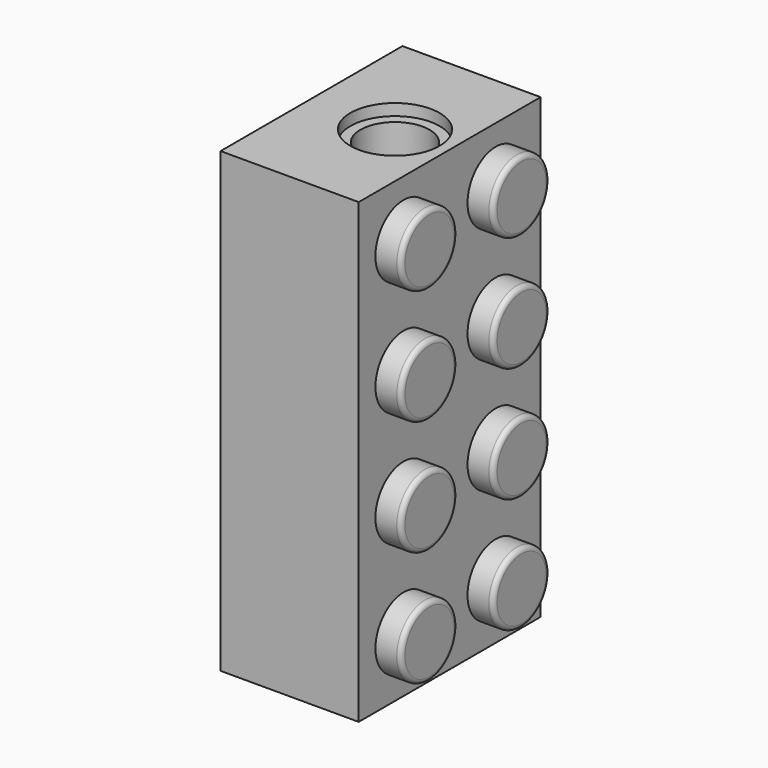
from build123d import *

# Parameters (mm, degrees)
SKETCH029_W                     = 15.8
SKETCH029_H                     = 31.8
PAD017_DEPTH                    = 9.6
SKETCH031_R                     = 2.4
POCKET011_DEPTH                 = 31.8
SKETCH030_R                     = 3.1
POCKET012_DEPTH                 = 0.8
SKETCH032_R                     = 2.45
PAD018_DEPTH                    = 1.8
SKETCH032_LINEARPATTERN010_2_R  = 2.45
PAD018_LINEARPATTERN010_2_DEPTH = 1.8
SKETCH032_LINEARPATTERN010_3_R  = 2.45
PAD018_LINEARPATTERN010_3_DEPTH = 1.8
SKETCH032_LINEARPATTERN010_4_R  = 2.45
PAD018_LINEARPATTERN010_4_DEPTH = 1.8
FILLET010_R                     = 0.32


with BuildPart() as part:
    # Sketch029 → Pad017 (new body)
    with BuildSketch(Plane.YZ):
        Rectangle(SKETCH029_W, SKETCH029_H)
    extrude(amount=PAD017_DEPTH)

    # Sketch031 (on Face1 of Pad017) → Pocket011 (cut)
    with BuildSketch(Plane(origin=(0, 0, 15.9), x_dir=(0, -1, 0), z_dir=(0, 0, 1))):
        with Locations((0, 5.8)):
            Circle(SKETCH031_R)
    extrude(amount=-POCKET011_DEPTH, mode=Mode.SUBTRACT)

    # Sketch030 (on Face1 of Pocket011) → Pocket012 (cut)
    with BuildSketch(Plane(origin=(0, 0, 15.9), x_dir=(0, -1, 0), z_dir=(0, 0, 1))):
        with Locations((0, 5.8)):
            Circle(SKETCH030_R)
    pocket012 = extrude(amount=-POCKET012_DEPTH, mode=Mode.SUBTRACT)

    # Mirrored007: Pocket012 across XY
    add(pocket012.mirror(Plane.XY), mode=Mode.SUBTRACT)

    # Sketch032 (on Face4 of Mirrored007) → Pad018 (join)
    with BuildSketch(Plane.YZ.offset(9.6)):
        with Locations((4, 12)):
            Circle(SKETCH032_R)
    pad018 = extrude(amount=PAD018_DEPTH)

    # Sketch032 LinearPattern010 2 → Pad018 LinearPattern010 2 (add)
    with BuildSketch(Plane(origin=(9.6, 0, -8), x_dir=(0, 1, 0), z_dir=(1, 0, 0))):
        with Locations((4, 12)):
            Circle(SKETCH032_LINEARPATTERN010_2_R)
    pad018_linearpattern010_2 = extrude(amount=PAD018_LINEARPATTERN010_2_DEPTH)

    # Sketch032 LinearPattern010 3 → Pad018 LinearPattern010 3 (add)
    with BuildSketch(Plane(origin=(9.6, 0, -16), x_dir=(0, 1, 0), z_dir=(1, 0, 0))):
        with Locations((4, 12)):
            Circle(SKETCH032_LINEARPATTERN010_3_R)
    pad018_linearpattern010_3 = extrude(amount=PAD018_LINEARPATTERN010_3_DEPTH)

    # Sketch032 LinearPattern010 4 → Pad018 LinearPattern010 4 (add)
    with BuildSketch(Plane(origin=(9.6, 0, -24), x_dir=(0, 1, 0), z_dir=(1, 0, 0))):
        with Locations((4, 12)):
            Circle(SKETCH032_LINEARPATTERN010_4_R)
    pad018_linearpattern010_4 = extrude(amount=PAD018_LINEARPATTERN010_4_DEPTH)

    # Mirrored006: Pad018, Pad018 LinearPattern010 2, Pad018 LinearPattern010 3, Pad018 LinearPattern010 4 across XZ
    add(pad018.mirror(Plane.XZ))
    add(pad018_linearpattern010_2.mirror(Plane.XZ))
    add(pad018_linearpattern010_3.mirror(Plane.XZ))
    add(pad018_linearpattern010_4.mirror(Plane.XZ))

    # Fillet010
    fillet010_edges = [part.edges().sort_by_distance(p)[0] for p in [
        (11.4, -1.55, -12),
        (11.4, 1.55, -12),
        (11.4, 1.55, -4),
        (11.4, -1.55, -4),
        (11.4, -1.55, 4),
        (11.4, 1.55, 4),
        (11.4, 1.55, 12),
        (11.4, -1.55, 12),
    ]]
    fillet(fillet010_edges, radius=FILLET010_R)


with BuildPart() as part_1:
    # Body007 placement: moved
    add(part.part.moved(Location((-15.4, 24, 0))))


solid = part_1.part
